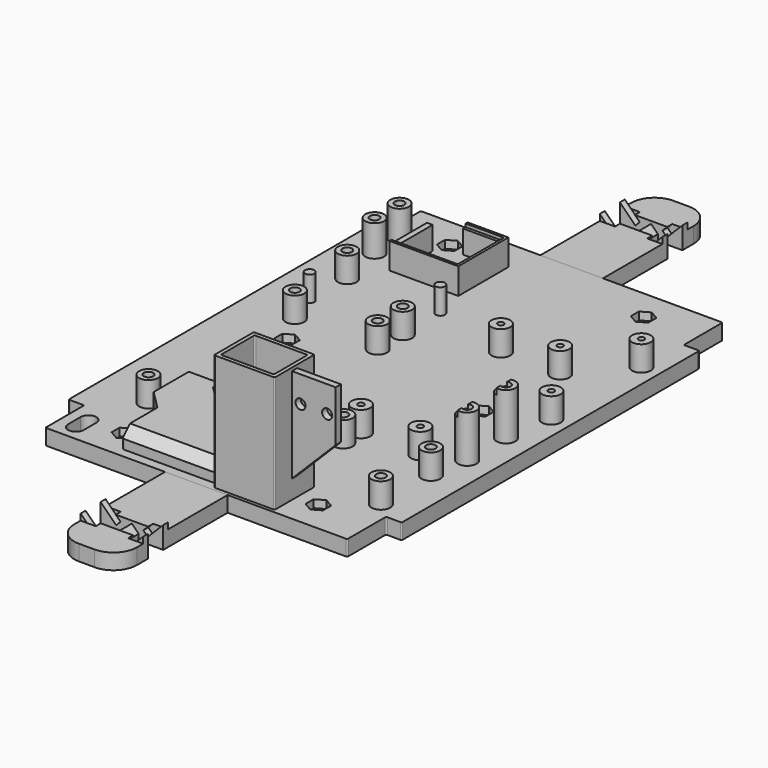
from build123d import *

# Parameters (mm, degrees)
PAD_DEPTH               = 5
SKETCH002_R             = 1.5
POCKET_DEPTH            = 2.5
SKETCH003_R             = 1.5
POCKET001_DEPTH         = 5
SKETCH004_W             = 20.5
SKETCH004_H             = 13.5
POCKET002_DEPTH         = 5
PAD001_DEPTH            = 13.5
SKETCH007_W             = 19.4
SKETCH007_H             = 15.9
SKETCH007_W_2           = 17
SKETCH007_H_2           = 13.5
PAD002_DEPTH            = 37.25
SKETCH008_W             = 2.1
SKETCH008_H             = 36.25
PAD003_DEPTH            = 14
POCKET003_DEPTH         = 2.1
SKETCH010_R             = 1.6
POCKET004_DEPTH         = 2.1
PAD193_DEPTH            = 6
POCKET198_DEPTH         = 10
CHAMFER_SIZE            = 3
POCKET218_DEPTH         = 5
FILLET_R                = 0.4
SKETCH450_R             = 3
SKETCH450_R_2           = 1.5
PAD231_DEPTH            = 8
SKETCH451_R             = 3
SKETCH451_R_2           = 1.5
PAD232_DEPTH            = 8
SKETCH452_R             = 3
SKETCH452_R_2           = 1.5
PAD233_DEPTH            = 8
SKETCH453_R             = 3
SKETCH453_R_2           = 1.5
PAD234_DEPTH            = 15
SKETCH454_W             = 2.25
SKETCH454_H             = 21.5
POCKET219_DEPTH         = 2
SKETCH455_R             = 3
SKETCH455_R_2           = 0.95
PAD235_DEPTH            = 8
SKETCH456_R             = 3
SKETCH456_R_2           = 0.95
PAD236_DEPTH            = 8
SKETCH468_R             = 3
SKETCH468_R_2           = 1.5
PAD244_DEPTH            = 10
PAD245_DEPTH            = 8.35
SKETCH470_W             = 22
SKETCH470_H             = 18.4
POCKET225_DEPTH         = 1
PAD197_DEPTH            = 5
POCKET202_DEPTH         = 3
POCKET202_DEPTH_BACK    = 3
SKETCH443_W             = 10
SKETCH443_H             = 2
POCKET203_DEPTH         = 5
POCKET203_DEPTH_BACK    = 2
SKETCH444_W             = 10
SKETCH444_H             = 2
POCKET204_DEPTH         = 5
POCKET204_DEPTH_BACK    = 2
POCKET204_FACE20_W      = 6
POCKET204_FACE20_H      = 5
POCKET205_DEPTH         = 5
POCKET205_FACE26_W      = 6
POCKET205_FACE26_H      = 5
POCKET206_DEPTH         = 5
PAD228_DEPTH            = 2
POCKET207_DEPTH         = 2
POCKET207_FACE66_W      = 6
POCKET207_FACE66_H      = 2.071068
POCKET208_DEPTH         = 5
POCKET208_FACE38_W      = 6
POCKET208_FACE38_H      = 2.071068
POCKET209_DEPTH         = 5
PAD229_DEPTH            = 5
POCKET214_DEPTH         = 3
POCKET214_DEPTH_BACK    = 3
SKETCH446_W             = 10
SKETCH446_H             = 2
POCKET215_DEPTH         = 5
POCKET215_DEPTH_BACK    = 2
SKETCH448_W             = 10
SKETCH448_H             = 2
POCKET216_DEPTH         = 5
POCKET216_DEPTH_BACK    = 2
POCKET216_FACE20_W      = 6
POCKET216_FACE20_H      = 5
POCKET217_DEPTH         = 5
POCKET217_FACE26_W      = 6
POCKET217_FACE26_H      = 5
POCKET210_DEPTH         = 5
PAD230_DEPTH            = 2
POCKET213_DEPTH         = 2
POCKET213_FACE66_W      = 6
POCKET213_FACE66_H      = 2.071068
POCKET211_DEPTH         = 5
POCKET211_FACE38_W      = 6
POCKET211_FACE38_H      = 2.071068
POCKET212_DEPTH         = 5
BODY150_PLACEMENT_ANGLE = 180


with BuildPart() as circuitry_mountingplate_base:
    # Sketch → Pad (new body)
    with BuildSketch(Plane.XY):
        Polygon((-53.25, -59.5), (-53.25, 59.5), (-48.25, 59.5), (-48.25, 75), (48.25, 75), (48.25, 59.5), (53.25, 59.5), (53.25, -59.5), (48.25, -59.5), (48.25, -75), (-48.25, -75), (-48.25, -59.5), align=None)
    extrude(amount=PAD_DEPTH)

    # Sketch002 (on Face14 of Pad) → Pocket (cut)
    with BuildSketch(Plane.XY.offset(5)):
        Polygon((-31, -61.766838), (-33.8, -63.383419), (-33.8, -66.616581), (-31, -68.233162), (-28.2, -66.616581), (-28.2, -63.383419), align=None)
        with Locations((-31, -65)):
            Circle(SKETCH002_R, mode=Mode.SUBTRACT)
        Polygon((31, -61.766838), (28.2, -63.383419), (28.2, -66.616581), (31, -68.233162), (33.8, -66.616581), (33.8, -63.383419), align=None)
        with Locations((31, -65)):
            Circle(SKETCH002_R, mode=Mode.SUBTRACT)
        Polygon((31, 3.233162), (28.2, 1.616581), (28.2, -1.616581), (31, -3.233162), (33.8, -1.616581), (33.8, 1.616581), align=None)
        with Locations((31, 0)):
            Circle(SKETCH002_R, mode=Mode.SUBTRACT)
        Polygon((-31, 3.233162), (-33.8, 1.616581), (-33.8, -1.616581), (-31, -3.233162), (-28.2, -1.616581), (-28.2, 1.616581), align=None)
        with Locations((-31, 0)):
            Circle(SKETCH002_R, mode=Mode.SUBTRACT)
        Polygon((-31, 68.233162), (-33.8, 66.616581), (-33.8, 63.383419), (-31, 61.766838), (-28.2, 63.383419), (-28.2, 66.616581), align=None)
        with Locations((-31, 65)):
            Circle(SKETCH002_R, mode=Mode.SUBTRACT)
        Polygon((31, 68.233162), (28.2, 66.616581), (28.2, 63.383419), (31, 61.766838), (33.8, 63.383419), (33.8, 66.616581), align=None)
        with Locations((31, 65)):
            Circle(SKETCH002_R, mode=Mode.SUBTRACT)
    extrude(amount=-POCKET_DEPTH, mode=Mode.SUBTRACT)

    # Sketch003 (on Face63 of Pocket) → Pocket001 (cut)
    with BuildSketch(Plane.XY.offset(5)):
        with Locations((-31, 65)):
            Circle(SKETCH003_R)
        with Locations((31, 65)):
            Circle(SKETCH003_R)
        with Locations((31, 0)):
            Circle(SKETCH003_R)
        with Locations((-31, 0)):
            Circle(SKETCH003_R)
        with Locations((-31, -65)):
            Circle(SKETCH003_R)
        with Locations((31, -65)):
            Circle(SKETCH003_R)
    extrude(amount=-POCKET001_DEPTH, mode=Mode.SUBTRACT)

    # Sketch004 (on Face5 of Pocket001) → Pocket002 (cut)
    with BuildSketch(Plane.XY.offset(5)):
        with Locations((16.25, -66)):
            Rectangle(SKETCH004_W, SKETCH004_H)
    extrude(amount=-POCKET002_DEPTH, mode=Mode.SUBTRACT)

    # Sketch006 (on Face20 of Pocket002) → Pad001 (join)
    with BuildSketch(Plane.XZ.offset(59.25)):
        Polygon((26.5, 0.75), (23, 4.25), (23, 5), (26.5, 5), align=None)
    extrude(amount=PAD001_DEPTH)

    # Sketch007 (on Face5 of Pad001) → Pad002 (join)
    with BuildSketch(Plane.XY.offset(5)):
        with Locations((14.5, -66)):
            Rectangle(SKETCH007_W, SKETCH007_H)
        with Locations((14.5, -66)):
            Rectangle(SKETCH007_W_2, SKETCH007_H_2, mode=Mode.SUBTRACT)
    extrude(amount=PAD002_DEPTH)

    # Sketch008 (on Face38 of Pad002) → Pad003 (join)
    with BuildSketch(Plane.YZ.offset(24.2)):
        with Locations((-66, 23.125)):
            Rectangle(SKETCH008_W, SKETCH008_H)
    extrude(amount=PAD003_DEPTH)

    # Sketch009 (on Face52 of Pad003) → Pocket003 (cut)
    with BuildSketch(Plane.XZ.offset(67.05)):
        Polygon((24.2, 5), (24.2, 11), (38.2, 25), (38.2, 5), align=None)
    extrude(amount=-POCKET003_DEPTH, mode=Mode.SUBTRACT)

    # Sketch010 (on Face83 of Pocket003) → Pocket004 (cut)
    with BuildSketch(Plane.XZ.offset(67.05)):
        with Locations((26.95, 32.85)):
            Circle(SKETCH010_R)
        with Locations((35.45, 32.85)):
            Circle(SKETCH010_R)
    extrude(amount=-POCKET004_DEPTH, mode=Mode.SUBTRACT)

    # Sketch410 (on Face5 of Pocket004) → Pad193 (join)
    with BuildSketch(Plane.XY.offset(5)):
        Polygon((4.8, -72), (-26, -72), (-26, -58.05), (-32, -52.05), (-32, -35), (-22, -35), (-22, -40.85), (-4.8, -58.05), (4.8, -58.05), align=None)
    extrude(amount=PAD193_DEPTH)

    # Sketch414 (on Face4 of Pad193) → Pocket198 (cut)
    with BuildSketch(Plane(origin=(0, 0, 0), x_dir=(1, 0, 0), z_dir=(0, 0, -1))):
        Polygon((6, 70), (-24, 70), (-24, 58.05), (-30.8, 51.25), (-30.8, 36.2), (-23.2, 36.2), (-23.2, 40.85), (-4.8, 59.25), (6, 59.25), align=None)
    extrude(amount=-POCKET198_DEPTH, mode=Mode.SUBTRACT)

    # Chamfer
    chamfer_edges = [circuitry_mountingplate_base.edges().sort_by_distance(p)[0] for p in [
        (-10.6, -72, 11),
        (0, -58.05, 11),
        (-27, -35, 11),
        (-27, -36.2, 10),
        (0.6, -59.25, 10),
        (-9, -70, 10),
    ]]
    chamfer(chamfer_edges, length=CHAMFER_SIZE)

    # Sketch449 → Pocket218 (cut)
    with BuildSketch(Plane.XY.offset(5)):
        with BuildLine():
            ThreePointArc((-45, -70), (-42.5, -72.5), (-40, -70))
            Line((-40, -70), (-40, -65))
            ThreePointArc((-40, -65), (-42.5, -62.5), (-45, -65))
            Line((-45, -70), (-45, -65))
        make_face()
    extrude(amount=-POCKET218_DEPTH, mode=Mode.SUBTRACT)

    # Fillet
    fillet_edges = [circuitry_mountingplate_base.edges().sort_by_distance(p)[0] for p in [
        (48.25, -75, 2.5),
        (48.25, -59.5, 2.5),
        (53.25, -59.5, 2.5),
        (53.25, 59.5, 2.5),
        (48.25, 59.5, 2.5),
        (48.25, 75, 2.5),
        (-48.25, 75, 2.5),
        (-48.25, 59.5, 2.5),
        (-53.25, 59.5, 2.5),
        (-53.25, -59.5, 2.5),
        (-48.25, -59.5, 2.5),
        (-48.25, -75, 2.5),
        (-30.8, -36.2, 3.5),
        (-24, -58.05, 5),
        (-30.8, -51.25, 5),
        (-24, -70, 3.5),
        (6, -70, 2.5),
        (6, -72.75, 2.5),
        (26.5, -72.75, 0.375),
        (26.5, -59.25, 0.375),
        (-4.8, -59.25, 3.5),
        (-23.2, -40.85, 5),
        (-23.2, -36.2, 3.5),
        (23, -59.25, 23.625),
        (23, -72.75, 23.625),
        (6, -72.75, 23.625),
        (6, -59.25, 8.5),
        (24.2, -73.95, 23.625),
        (24.2, -58.05, 23.625),
        (4.8, -58.05, 26.625),
        (4.8, -73.95, 23.625),
        (-26, -72, 6.5),
        (-26, -58.05, 8),
        (-32, -52.05, 8),
        (-32, -35, 6.5),
        (-22, -35, 6.5),
        (-22, -40.85, 8),
        (-4.8, -58.05, 6.5),
    ]]
    fillet(fillet_edges, radius=FILLET_R)

    # Sketch450 (on Face69 of Fillet) → Pad231 (join)
    with BuildSketch(Plane.XY.offset(5)):
        with Locations((-36.5, -48.5)):
            Circle(SKETCH450_R)
        with Locations((-36.5, -48.5)):
            Circle(SKETCH450_R_2, mode=Mode.SUBTRACT)
        with Locations((-10, -48.5)):
            Circle(SKETCH450_R)
        with Locations((-10, -48.5)):
            Circle(SKETCH450_R_2, mode=Mode.SUBTRACT)
        with Locations((-36.5, 10)):
            Circle(SKETCH450_R)
        with Locations((-36.5, 10)):
            Circle(SKETCH450_R_2, mode=Mode.SUBTRACT)
        with Locations((-10, 10)):
            Circle(SKETCH450_R)
        with Locations((-10, 10)):
            Circle(SKETCH450_R_2, mode=Mode.SUBTRACT)
    extrude(amount=PAD231_DEPTH)

    # Sketch451 (on Face69 of Pad231) → Pad232 (join)
    with BuildSketch(Plane.XY.offset(5)):
        with Locations((-39.75, 35)):
            Circle(SKETCH451_R)
        with Locations((-39.75, 35)):
            Circle(SKETCH451_R_2, mode=Mode.SUBTRACT)
        with Locations((-10, 35)):
            Circle(SKETCH451_R_2)
        with Locations((-39.75, 20)):
            Circle(SKETCH451_R_2)
        with Locations((-10, 20)):
            Circle(SKETCH451_R)
        with Locations((-10, 20)):
            Circle(SKETCH451_R_2, mode=Mode.SUBTRACT)
    extrude(amount=PAD232_DEPTH)

    # Sketch452 (on Face69 of Pad232) → Pad233 (join)
    with BuildSketch(Plane.XY.offset(5)):
        with Locations((15, -35)):
            Circle(SKETCH452_R)
        with Locations((15, -35)):
            Circle(SKETCH452_R_2, mode=Mode.SUBTRACT)
        with Locations((43, -35)):
            Circle(SKETCH452_R)
        with Locations((43, -35)):
            Circle(SKETCH452_R_2, mode=Mode.SUBTRACT)
        with Locations((43, -55)):
            Circle(SKETCH452_R)
        with Locations((43, -55)):
            Circle(SKETCH452_R_2, mode=Mode.SUBTRACT)
        with Locations((15, -55)):
            Circle(SKETCH452_R)
        with Locations((15, -55)):
            Circle(SKETCH452_R_2, mode=Mode.SUBTRACT)
    extrude(amount=PAD233_DEPTH)

    # Sketch453 (on Face69 of Pad233) → Pad234 (join)
    with BuildSketch(Plane.XY.offset(5)):
        with Locations((45, -7.5)):
            Circle(SKETCH453_R)
        with Locations((45, -7.5)):
            Circle(SKETCH453_R_2, mode=Mode.SUBTRACT)
        with Locations((45, -23)):
            Circle(SKETCH453_R)
        with Locations((45, -23)):
            Circle(SKETCH453_R_2, mode=Mode.SUBTRACT)
    extrude(amount=PAD234_DEPTH)

    # Sketch454 (on Face173 of Pad234) → Pocket219 (cut)
    with BuildSketch(Plane.XY.offset(20)):
        with Locations((43.125, -15.25)):
            Rectangle(SKETCH454_W, SKETCH454_H)
    extrude(amount=-POCKET219_DEPTH, mode=Mode.SUBTRACT)

    # Sketch455 (on Face69 of Pocket219) → Pad235 (join)
    with BuildSketch(Plane.XY.offset(5)):
        with Locations((15, -27.95)):
            Circle(SKETCH455_R)
        with Locations((15, -27.95)):
            Circle(SKETCH455_R_2, mode=Mode.SUBTRACT)
        with Locations((15, 27.95)):
            Circle(SKETCH455_R)
        with Locations((15, 27.95)):
            Circle(SKETCH455_R_2, mode=Mode.SUBTRACT)
        with Locations((33.98, 27.95)):
            Circle(SKETCH455_R)
        with Locations((33.98, 27.95)):
            Circle(SKETCH455_R_2, mode=Mode.SUBTRACT)
        with Locations((33.98, -27.95)):
            Circle(SKETCH455_R)
        with Locations((33.98, -27.95)):
            Circle(SKETCH455_R_2, mode=Mode.SUBTRACT)
    extrude(amount=PAD235_DEPTH)

    # Sketch456 (on Face69 of Pad235) → Pad236 (join)
    with BuildSketch(Plane.XY.offset(5)):
        with Locations((47.5, 7.5)):
            Circle(SKETCH456_R)
        with Locations((47.5, 7.5)):
            Circle(SKETCH456_R_2, mode=Mode.SUBTRACT)
        with Locations((47.5, 43.5)):
            Circle(SKETCH456_R)
        with Locations((47.5, 43.5)):
            Circle(SKETCH456_R_2, mode=Mode.SUBTRACT)
    extrude(amount=PAD236_DEPTH)

    # Sketch468 (on Face69 of Pad236) → Pad244 (join)
    with BuildSketch(Plane.XY.offset(5)):
        with Locations((-43, 60)):
            Circle(SKETCH468_R)
        with Locations((-43, 60)):
            Circle(SKETCH468_R_2, mode=Mode.SUBTRACT)
        with Locations((-43, 50)):
            Circle(SKETCH468_R)
        with Locations((-43, 50)):
            Circle(SKETCH468_R_2, mode=Mode.SUBTRACT)
    extrude(amount=PAD244_DEPTH)

    # Sketch469 (on Face69 of Pad244) → Pad245 (join)
    with BuildSketch(Plane.XY.offset(5)):
        Polygon((-25.25, 65), (-12.25, 65), (-12.25, 45), (-34.25, 45), (-34.25, 60), (-32.45, 60), (-32.45, 46.8), (-14.05, 46.8), (-14.05, 63.2), (-25.25, 63.2), align=None)
    extrude(amount=PAD245_DEPTH)

    # Sketch470 (on Face215 of Pad245) → Pocket225 (cut)
    with BuildSketch(Plane.XY.offset(13.35)):
        with Locations((-24.05, 55)):
            Rectangle(SKETCH470_W, SKETCH470_H)
    extrude(amount=-POCKET225_DEPTH, mode=Mode.SUBTRACT)


with BuildPart() as circuitry_mountingplate_front_extension:
    # Sketch417 → Pad197 (new body)
    with BuildSketch(Plane.XY):
        with BuildLine():
            Line((-10, -28.75), (10, -28.75))
            Line((10, -28.75), (10, 7.5))
            ThreePointArc((10, 7.5), (7.803301, 12.803301), (2.5, 15))
            Line((2.5, 15), (-2.5, 15))
            ThreePointArc((-2.5, 15), (-7.803301, 12.803301), (-10, 7.5))
            Line((-10, 7.5), (-10, -28.75))
        make_face()
    extrude(amount=PAD197_DEPTH)

    # Sketch442 → Pocket202 (cut, two sides)
    with BuildSketch(Plane.XZ) as pocket202_sk:
        Polygon((-10, 0), (-10, 5), (-8.585786, 6.414214), (-2.171573, 0), (-5, 0), align=None)
        Polygon((10, 0), (10, 5), (8.585786, 6.414214), (2.171573, 0), (5, 0), align=None)
    extrude(amount=-POCKET202_DEPTH, mode=Mode.SUBTRACT)
    extrude(pocket202_sk.sketch, amount=POCKET202_DEPTH_BACK, mode=Mode.SUBTRACT)

    # Sketch443 (on DatumPlane) → Pocket203 (cut, two sides)
    with BuildSketch(Plane(origin=(-7.171573, 3, 5), x_dir=(0, -1, 0), z_dir=(-0.707107, 0, 0.707107))) as pocket203_sk:
        with Locations((3, -1)):
            Rectangle(SKETCH443_W, SKETCH443_H)
    extrude(amount=-POCKET203_DEPTH, mode=Mode.SUBTRACT)
    extrude(pocket203_sk.sketch, amount=POCKET203_DEPTH_BACK, mode=Mode.SUBTRACT)

    # Sketch444 (on DatumPlane) → Pocket204 (cut, two sides)
    with BuildSketch(Plane(origin=(7.171573, 3, 5), x_dir=(0, 1, 0), z_dir=(0.707107, 0, 0.707107))) as pocket204_sk:
        with Locations((-3, -1)):
            Rectangle(SKETCH444_W, SKETCH444_H)
    extrude(amount=-POCKET204_DEPTH, mode=Mode.SUBTRACT)
    extrude(pocket204_sk.sketch, amount=POCKET204_DEPTH_BACK, mode=Mode.SUBTRACT)

    # Pocket204 Face20 → Pocket205 (cut)
    with BuildSketch(Plane(origin=(-5.403806, 0, 3.232233), x_dir=(0, 1, 0), z_dir=(-0.707107, 0, -0.707107))):
        Rectangle(POCKET204_FACE20_W, POCKET204_FACE20_H)
    extrude(amount=-POCKET205_DEPTH, mode=Mode.SUBTRACT)

    # Pocket205 Face26 → Pocket206 (cut)
    with BuildSketch(Plane(origin=(5.403806, 0, 3.232233), x_dir=(0, -1, 0), z_dir=(0.707107, 0, -0.707107))):
        Rectangle(POCKET205_FACE26_W, POCKET205_FACE26_H)
    extrude(amount=-POCKET206_DEPTH, mode=Mode.SUBTRACT)

    # Pocket206 Face4 → Pad228 (add)
    with BuildSketch(Plane(origin=(0, -8.372552, 0), x_dir=(0, -1, 0), z_dir=(0, 0, -1))):
        with BuildLine():
            Line((20.377448, 10), (-5.372552, 10))
            Line((-5.372552, 10), (-5.372552, 5))
            Line((-5.372552, 5), (-5.372552, 2.171573))
            Line((-5.372552, 2.171573), (-11.372552, 2.171573))
            Line((-11.372552, 2.171573), (-11.372552, 5))
            Line((-11.372552, 5), (-11.372552, 10))
            Line((-11.372552, 10), (-15.872552, 10))
            ThreePointArc((-15.872552, 10), (-21.175853, 7.803301), (-23.372552, 2.5))
            Line((-23.372552, 2.5), (-23.372552, -2.5))
            ThreePointArc((-23.372552, -2.5), (-21.175853, -7.803301), (-15.872552, -10))
            Line((-15.872552, -10), (-11.372552, -10))
            Line((-11.372552, -10), (-11.372552, -5))
            Line((-11.372552, -5), (-11.372552, -2.171573))
            Line((-11.372552, -2.171573), (-5.372552, -2.171573))
            Line((-5.372552, -2.171573), (-5.372552, -5))
            Line((-5.372552, -5), (-5.372552, -10))
            Line((-5.372552, -10), (20.377448, -10))
            Line((20.377448, -10), (20.377448, 10))
        make_face()
    extrude(amount=PAD228_DEPTH)

    # Pad228 Face5 → Pocket207 (cut)
    with BuildSketch(Plane(origin=(0, -8.9329, 5), x_dir=(0, 1, 0), z_dir=(0, 0, 1))):
        with BuildLine():
            Line((11.9329, 0.100505), (5.9329, 0.100505))
            Line((5.9329, 0.100505), (5.9329, 7.171573))
            Line((5.9329, 7.171573), (3.9329, 7.171573))
            Line((3.9329, 7.171573), (3.9329, 10))
            Line((3.9329, 10), (-19.8171, 10))
            Line((-19.8171, 10), (-19.8171, -10))
            Line((-19.8171, -10), (3.9329, -10))
            Line((3.9329, -10), (3.9329, -7.171573))
            Line((3.9329, -7.171573), (5.9329, -7.171573))
            Line((5.9329, -7.171573), (5.9329, -0.100505))
            Line((5.9329, -0.100505), (11.9329, -0.100505))
            Line((11.9329, -0.100505), (11.9329, -7.171573))
            Line((11.9329, -7.171573), (13.9329, -7.171573))
            Line((13.9329, -7.171573), (13.9329, -10))
            Line((13.9329, -10), (16.4329, -10))
            ThreePointArc((16.4329, -10), (21.736201, -7.803301), (23.9329, -2.5))
            Line((23.9329, -2.5), (23.9329, 2.5))
            ThreePointArc((23.9329, 2.5), (21.736201, 7.803301), (16.4329, 10))
            Line((16.4329, 10), (13.9329, 10))
            Line((13.9329, 10), (13.9329, 7.171573))
            Line((13.9329, 7.171573), (11.9329, 7.171573))
            Line((11.9329, 7.171573), (11.9329, 0.100505))
        make_face()
    extrude(amount=-POCKET207_DEPTH, mode=Mode.SUBTRACT)

    # Pocket207 Face66 → Pocket208 (cut)
    with BuildSketch(Plane(origin=(-2.903806, 0, 0.732233), x_dir=(0, 1, 0), z_dir=(-0.707107, 0, -0.707107))):
        Rectangle(POCKET207_FACE66_W, POCKET207_FACE66_H)
    extrude(amount=-POCKET208_DEPTH, mode=Mode.SUBTRACT)

    # Pocket208 Face38 → Pocket209 (cut)
    with BuildSketch(Plane(origin=(2.903806, 0, 0.732233), x_dir=(0, -1, 0), z_dir=(0.707107, 0, -0.707107))):
        Rectangle(POCKET208_FACE38_W, POCKET208_FACE38_H)
    extrude(amount=-POCKET209_DEPTH, mode=Mode.SUBTRACT)


with BuildPart() as circuitry_mountingplate_front_extension_1:
    # Body001 placement: moved
    add(circuitry_mountingplate_front_extension.part.moved(Location((0, 103.75, 2))))


with BuildPart() as circuitry_mountingplate_rear_extension:
    # Sketch445 → Pad229 (new body)
    with BuildSketch(Plane.XY):
        with BuildLine():
            Line((-10, -28.75), (10, -28.75))
            Line((10, -28.75), (10, 7.5))
            ThreePointArc((10, 7.5), (7.803301, 12.803301), (2.5, 15))
            Line((2.5, 15), (-2.5, 15))
            ThreePointArc((-2.5, 15), (-7.803301, 12.803301), (-10, 7.5))
            Line((-10, 7.5), (-10, -28.75))
        make_face()
    extrude(amount=PAD229_DEPTH)

    # Sketch447 → Pocket214 (cut, two sides)
    with BuildSketch(Plane.XZ) as pocket214_sk:
        Polygon((-10, 0), (-10, 5), (-8.585786, 6.414214), (-2.171573, 0), (-5, 0), align=None)
        Polygon((10, 0), (10, 5), (8.585786, 6.414214), (2.171573, 0), (5, 0), align=None)
    extrude(amount=-POCKET214_DEPTH, mode=Mode.SUBTRACT)
    extrude(pocket214_sk.sketch, amount=POCKET214_DEPTH_BACK, mode=Mode.SUBTRACT)

    # Sketch446 (on DatumPlane) → Pocket215 (cut, two sides)
    with BuildSketch(Plane(origin=(-7.171573, 3, 5), x_dir=(0, -1, 0), z_dir=(-0.707107, 0, 0.707107))) as pocket215_sk:
        with Locations((3, -1)):
            Rectangle(SKETCH446_W, SKETCH446_H)
    extrude(amount=-POCKET215_DEPTH, mode=Mode.SUBTRACT)
    extrude(pocket215_sk.sketch, amount=POCKET215_DEPTH_BACK, mode=Mode.SUBTRACT)

    # Sketch448 (on DatumPlane) → Pocket216 (cut, two sides)
    with BuildSketch(Plane(origin=(7.171573, 3, 5), x_dir=(0, 1, 0), z_dir=(0.707107, 0, 0.707107))) as pocket216_sk:
        with Locations((-3, -1)):
            Rectangle(SKETCH448_W, SKETCH448_H)
    extrude(amount=-POCKET216_DEPTH, mode=Mode.SUBTRACT)
    extrude(pocket216_sk.sketch, amount=POCKET216_DEPTH_BACK, mode=Mode.SUBTRACT)

    # Pocket216 Face20 → Pocket217 (cut)
    with BuildSketch(Plane(origin=(-5.403806, 0, 3.232233), x_dir=(0, 1, 0), z_dir=(-0.707107, 0, -0.707107))):
        Rectangle(POCKET216_FACE20_W, POCKET216_FACE20_H)
    extrude(amount=-POCKET217_DEPTH, mode=Mode.SUBTRACT)

    # Pocket217 Face26 → Pocket210 (cut)
    with BuildSketch(Plane(origin=(5.403806, 0, 3.232233), x_dir=(0, -1, 0), z_dir=(0.707107, 0, -0.707107))):
        Rectangle(POCKET217_FACE26_W, POCKET217_FACE26_H)
    extrude(amount=-POCKET210_DEPTH, mode=Mode.SUBTRACT)

    # Pocket210 Face4 → Pad230 (add)
    with BuildSketch(Plane(origin=(0, -8.372552, 0), x_dir=(0, -1, 0), z_dir=(0, 0, -1))):
        with BuildLine():
            Line((20.377448, 10), (-5.372552, 10))
            Line((-5.372552, 10), (-5.372552, 5))
            Line((-5.372552, 5), (-5.372552, 2.171573))
            Line((-5.372552, 2.171573), (-11.372552, 2.171573))
            Line((-11.372552, 2.171573), (-11.372552, 5))
            Line((-11.372552, 5), (-11.372552, 10))
            Line((-11.372552, 10), (-15.872552, 10))
            ThreePointArc((-15.872552, 10), (-21.175853, 7.803301), (-23.372552, 2.5))
            Line((-23.372552, 2.5), (-23.372552, -2.5))
            ThreePointArc((-23.372552, -2.5), (-21.175853, -7.803301), (-15.872552, -10))
            Line((-15.872552, -10), (-11.372552, -10))
            Line((-11.372552, -10), (-11.372552, -5))
            Line((-11.372552, -5), (-11.372552, -2.171573))
            Line((-11.372552, -2.171573), (-5.372552, -2.171573))
            Line((-5.372552, -2.171573), (-5.372552, -5))
            Line((-5.372552, -5), (-5.372552, -10))
            Line((-5.372552, -10), (20.377448, -10))
            Line((20.377448, -10), (20.377448, 10))
        make_face()
    extrude(amount=PAD230_DEPTH)

    # Pad230 Face5 → Pocket213 (cut)
    with BuildSketch(Plane(origin=(0, -8.9329, 5), x_dir=(0, 1, 0), z_dir=(0, 0, 1))):
        with BuildLine():
            Line((11.9329, 0.100505), (5.9329, 0.100505))
            Line((5.9329, 0.100505), (5.9329, 7.171573))
            Line((5.9329, 7.171573), (3.9329, 7.171573))
            Line((3.9329, 7.171573), (3.9329, 10))
            Line((3.9329, 10), (-19.8171, 10))
            Line((-19.8171, 10), (-19.8171, -10))
            Line((-19.8171, -10), (3.9329, -10))
            Line((3.9329, -10), (3.9329, -7.171573))
            Line((3.9329, -7.171573), (5.9329, -7.171573))
            Line((5.9329, -7.171573), (5.9329, -0.100505))
            Line((5.9329, -0.100505), (11.9329, -0.100505))
            Line((11.9329, -0.100505), (11.9329, -7.171573))
            Line((11.9329, -7.171573), (13.9329, -7.171573))
            Line((13.9329, -7.171573), (13.9329, -10))
            Line((13.9329, -10), (16.4329, -10))
            ThreePointArc((16.4329, -10), (21.736201, -7.803301), (23.9329, -2.5))
            Line((23.9329, -2.5), (23.9329, 2.5))
            ThreePointArc((23.9329, 2.5), (21.736201, 7.803301), (16.4329, 10))
            Line((16.4329, 10), (13.9329, 10))
            Line((13.9329, 10), (13.9329, 7.171573))
            Line((13.9329, 7.171573), (11.9329, 7.171573))
            Line((11.9329, 7.171573), (11.9329, 0.100505))
        make_face()
    extrude(amount=-POCKET213_DEPTH, mode=Mode.SUBTRACT)

    # Pocket213 Face66 → Pocket211 (cut)
    with BuildSketch(Plane(origin=(-2.903806, 0, 0.732233), x_dir=(0, 1, 0), z_dir=(-0.707107, 0, -0.707107))):
        Rectangle(POCKET213_FACE66_W, POCKET213_FACE66_H)
    extrude(amount=-POCKET211_DEPTH, mode=Mode.SUBTRACT)

    # Pocket211 Face38 → Pocket212 (cut)
    with BuildSketch(Plane(origin=(2.903806, 0, 0.732233), x_dir=(0, -1, 0), z_dir=(0.707107, 0, -0.707107))):
        Rectangle(POCKET211_FACE38_W, POCKET211_FACE38_H)
    extrude(amount=-POCKET212_DEPTH, mode=Mode.SUBTRACT)


with BuildPart() as circuitry_mountingplate_rear_extension_1:
    # Body150 placement: moved
    add(circuitry_mountingplate_rear_extension.part.moved(Location((0, -103.75, 2))).rotate(Axis((0, -103.75, 2), (0, 0, 1)), BODY150_PLACEMENT_ANGLE))


solid = Compound([circuitry_mountingplate_base.part, circuitry_mountingplate_front_extension_1.part, circuitry_mountingplate_rear_extension_1.part])
